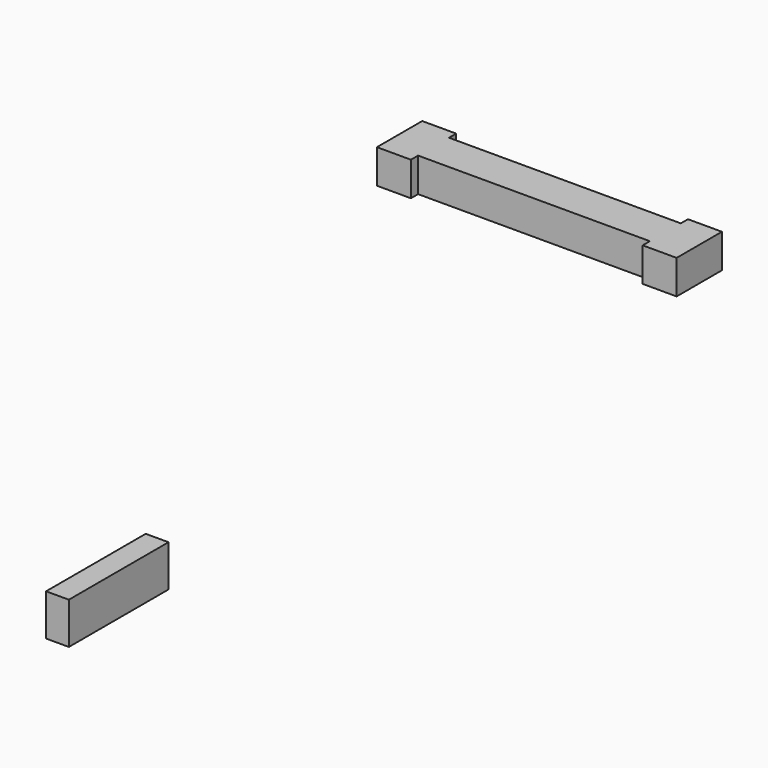
from build123d import *

# Parameters (mm, degrees)
F0_W     = 2.012864
F0_H     = 3.675669
F1_DEPTH = 11
F3_DEPTH = 3


with BuildPart() as f1:
    # F0 (on Front) → F1 (new body)
    with BuildSketch(Plane.XZ):
        with Locations((-94.797858, -51.608745)):
            Rectangle(F0_W, F0_H)
    extrude(amount=F1_DEPTH)


with BuildPart() as f3:
    # F2 (on Top) → F3 (new body)
    with BuildSketch(Plane.XY):
        Polygon((-53.102556, -23.305252), (-32.629435, -23.305252), (-32.629435, -24.098058), (-29.629435, -24.098058), (-29.629435, -19.098058), (-32.629435, -19.098058), (-32.629435, -19.890863), (-53.102556, -19.890863), (-53.102556, -19.098058), (-56.102556, -19.098058), (-56.102556, -24.098058), (-53.102556, -24.098058), align=None)
    extrude(amount=F3_DEPTH)


solid = Compound([f1.part, f3.part])
